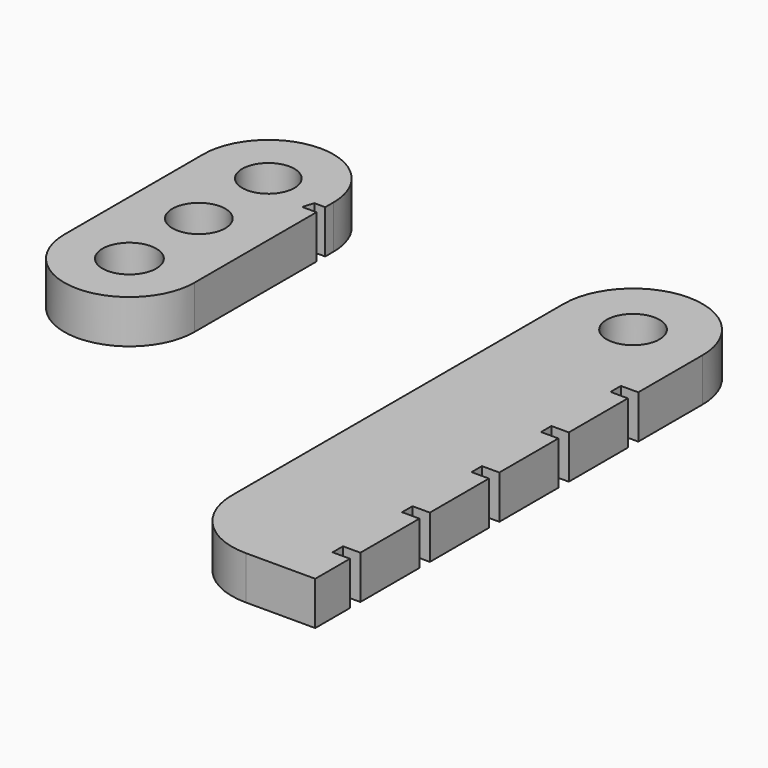
from build123d import *

# Parameters (mm, degrees)
F1_DEPTH = 5
F2_R     = 3.05
F2_R_2   = 3
F2_R_3   = 3.1
F3_DEPTH = 25
F4_R     = 3.05
F5_DEPTH = 5


with BuildPart() as f1:
    # F0 (on Top) → F1 (new body)
    with BuildSketch(Plane.XY):
        with BuildLine():
            Line((7.5, 8.814171), (7.5, 10))
            ThreePointArc((7.5, 10), (0, 17.5), (-7.5, 10))
            Line((-7.5, 10), (-7.5, -10))
            ThreePointArc((-7.5, -10), (0, -17.5), (7.5, -10))
            Line((7.5, -10), (7.5, 7.558068))
            Line((7.5, 7.558068), (5.85612, 7.558068))
            Line((5.85612, 7.558068), (6.243898, 8.814171))
            Line((6.243898, 8.814171), (7.5, 8.814171))
        make_face()
    extrude(amount=-F1_DEPTH)

    # F2 (on face) → F3 (cut)
    with BuildSketch(Plane.XY):
        Circle(F2_R)
        with Locations((0, 10)):
            Circle(F2_R_2)
        with Locations((0, -10)):
            Circle(F2_R_3)
    extrude(amount=-F3_DEPTH, mode=Mode.SUBTRACT)


with BuildPart() as f5:
    # F4 (on Top) → F5 (new body)
    with BuildSketch(Plane.XY):
        with BuildLine():
            Line((58, -9.25), (58, 0))
            ThreePointArc((58, 0), (50, 8), (42, 0))
            Line((42, 0), (42, -47.75))
            ThreePointArc((42, -47.75), (44.343146, -53.406854), (50, -55.75))
            Line((50, -55.75), (58, -55.75))
            Line((58, -55.75), (58, -50.75))
            Line((58, -50.75), (56, -50.75))
            Line((56, -50.75), (56, -49.25))
            Line((56, -49.25), (58, -49.25))
            Line((58, -49.25), (58, -40.75))
            Line((58, -40.75), (56, -40.75))
            Line((56, -40.75), (56, -39.25))
            Line((56, -39.25), (58, -39.25))
            Line((58, -39.25), (58, -30.75))
            Line((58, -30.75), (56, -30.75))
            Line((56, -30.75), (56, -29.25))
            Line((56, -29.25), (58, -29.25))
            Line((58, -29.25), (58, -20.75))
            Line((58, -20.75), (56, -20.75))
            Line((56, -20.75), (56, -19.25))
            Line((56, -19.25), (58, -19.25))
            Line((58, -19.25), (58, -10.75))
            Line((58, -10.75), (56, -10.75))
            Line((56, -10.75), (56, -9.25))
            Line((56, -9.25), (58, -9.25))
        make_face()
        with Locations((50, 0)):
            Circle(F4_R, mode=Mode.SUBTRACT)
    extrude(amount=F5_DEPTH)


solid = Compound([f1.part, f5.part])
